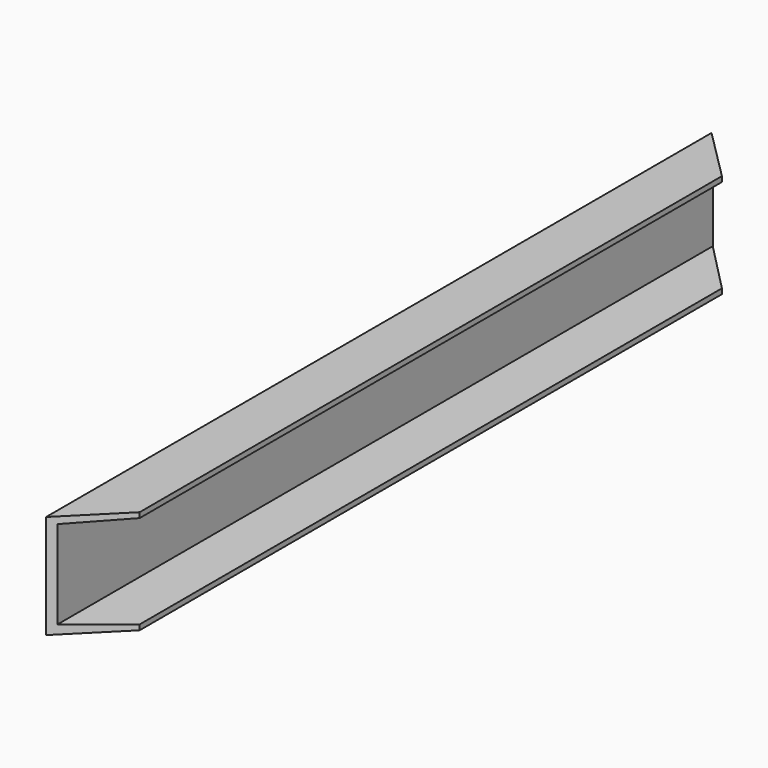
from build123d import *

# Parameters (mm, degrees)
F1_DEPTH  = 800
F1_FACE_W = 50
F1_FACE_H = 800
F3_DEPTH  = 110


with BuildPart() as f1:
    # F0 (on Front) → F1 (new body)
    with BuildSketch(Plane.XZ):
        Polygon((0, 100), (0, 0), (50, 0), (50, 5), (6, 8.463486), (6, 93.463486), (50, 95), (50, 100), align=None)
    extrude(amount=F1_DEPTH)

    # F2 (on Top) + F1_face (on face) → F3 (cut)
    with BuildSketch(Plane.XY):
        Polygon((87.158154, 52.255962), (0, 52.255962), (0, 0), (87.158154, -87.158154), align=None)
        Polygon((0, -800), (0, -810), (98.867149, -810), (98.867149, -701.132851), align=None)
    with BuildSketch(Plane(origin=(25, -400, 100), x_dir=(1, 0, 0), z_dir=(0, 0, 1))):
        Rectangle(F1_FACE_W, F1_FACE_H)
    extrude(amount=F3_DEPTH, mode=Mode.SUBTRACT)


solid = f1.part
